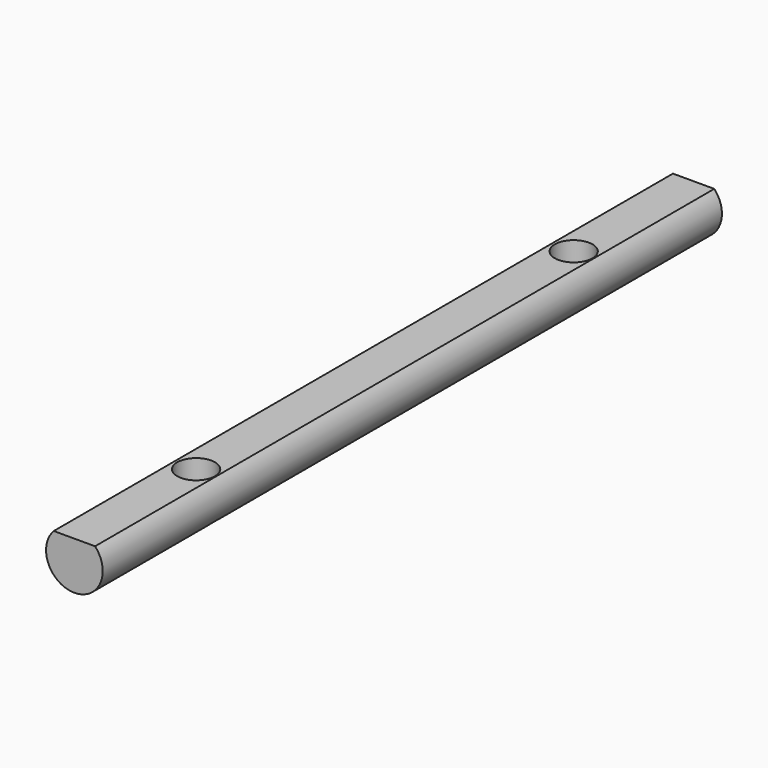
from build123d import *

# Parameters (mm, degrees)
F1_DEPTH = 130.175
F3_D     = 6.35


with BuildPart() as f1:
    # F0 (on Front) → F1 (new body)
    with BuildSketch(Plane.XZ):
        with BuildLine():
            Line((3.323758, 5.364586), (-3.624933, 5.364586))
            ThreePointArc((-3.624933, 5.364586), (-0.150587, -2.655264), (3.323758, 5.364586))
        make_face()
    extrude(amount=F1_DEPTH)

    # F3 (through all)
    with Locations(Plane.XY.offset(5.364586)):
        with Locations((0, -25.4), (0, -104.775)):
            Hole(F3_D / 2)


solid = f1.part
